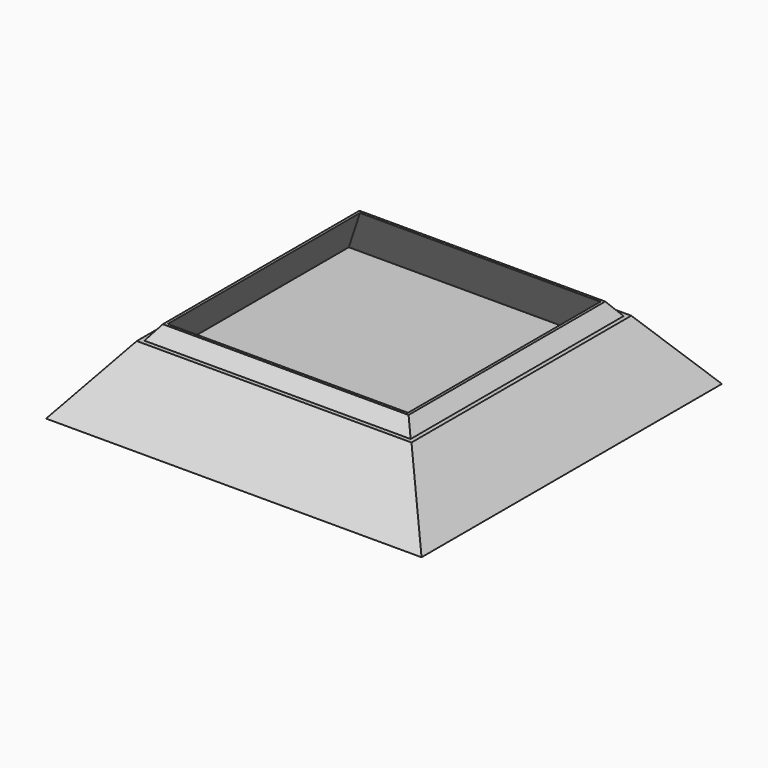
from build123d import *

# Parameters (mm, degrees)
BOX002_W     = 275
BOX002_H     = 275
BOX002_DEPTH = 47
SKETCH022_W  = 195
SKETCH022_H  = 195
SKETCH023_W  = 180
SKETCH023_H  = 180
BOX001_W     = 275
BOX001_H     = 275
BOX001_DEPTH = 52
SKETCH020_W  = 275
SKETCH020_H  = 275
SKETCH021_W  = 0.1
SKETCH021_H  = 0.1
SKETCH018_W  = 275
SKETCH018_H  = 275
SKETCH019_W  = 0.1
SKETCH019_H  = 0.1
BOX_W        = 275
BOX_H        = 275
BOX_DEPTH    = 57


with BuildPart() as layer0keep001:
    # Box002 → Box002 (new body)
    with BuildSketch(Plane.XY):
        with Locations((137.5, 137.5)):
            Rectangle(BOX002_W, BOX002_H)
    extrude(amount=BOX002_DEPTH)


with BuildPart() as layer003:
    # Sketch022 → Loft003 section 0
    with BuildSketch(Plane.XY.offset(47)):
        with Locations((137.5, 137.5)):
            Rectangle(SKETCH022_W, SKETCH022_H)
    # Sketch023 → Loft003 section 1
    with BuildSketch(Plane.XY.offset(57)):
        with Locations((137.5, 137.5)):
            Rectangle(SKETCH023_W, SKETCH023_H)
    loft()

    # Fusion015: union layer0Keep001
    add(layer0keep001.part)


with BuildPart() as layer002:
    # Box001 → Box001 (new body)
    with BuildSketch(Plane.XY.offset(5)):
        with Locations((137.5, 137.5)):
            Rectangle(BOX001_W, BOX001_H)
    extrude(amount=BOX001_DEPTH)


with BuildPart() as layer0cut:
    # Sketch020 → Loft002 section 0
    with BuildSketch(Plane.XY):
        with Locations((137.5, 137.5)):
            Rectangle(SKETCH020_W, SKETCH020_H)
    # Sketch021 → Loft002 section 1
    with BuildSketch(Plane.XY.offset(175.1)):
        with Locations((137.5, 137.5)):
            Rectangle(SKETCH021_W, SKETCH021_H)
    loft()


with BuildPart() as layer0cut_1:
    # Loft002 placement: moved
    add(layer0cut.part.moved(Location((0, 0, -6))))

    # Common001: intersect layer002
    add(layer002.part, mode=Mode.INTERSECT)


with BuildPart() as obj1:
    # Sketch018 → Loft001 section 0
    with BuildSketch(Plane.XY):
        with Locations((137.5, 137.5)):
            Rectangle(SKETCH018_W, SKETCH018_H)
    # Sketch019 → Loft001 section 1
    with BuildSketch(Plane.XY.offset(175.1)):
        with Locations((137.5, 137.5)):
            Rectangle(SKETCH019_W, SKETCH019_H)
    loft()


with BuildPart() as obj2:
    # Box → Box (new body)
    with BuildSketch(Plane.XY):
        with Locations((137.5, 137.5)):
            Rectangle(BOX_W, BOX_H)
    extrude(amount=BOX_DEPTH)

    # Common: intersect obj1
    add(obj1.part, mode=Mode.INTERSECT)

    # Cut: cut layer0cut
    add(layer0cut_1.part, mode=Mode.SUBTRACT)

    # Common002: intersect layer003
    add(layer003.part, mode=Mode.INTERSECT)


solid = obj2.part
